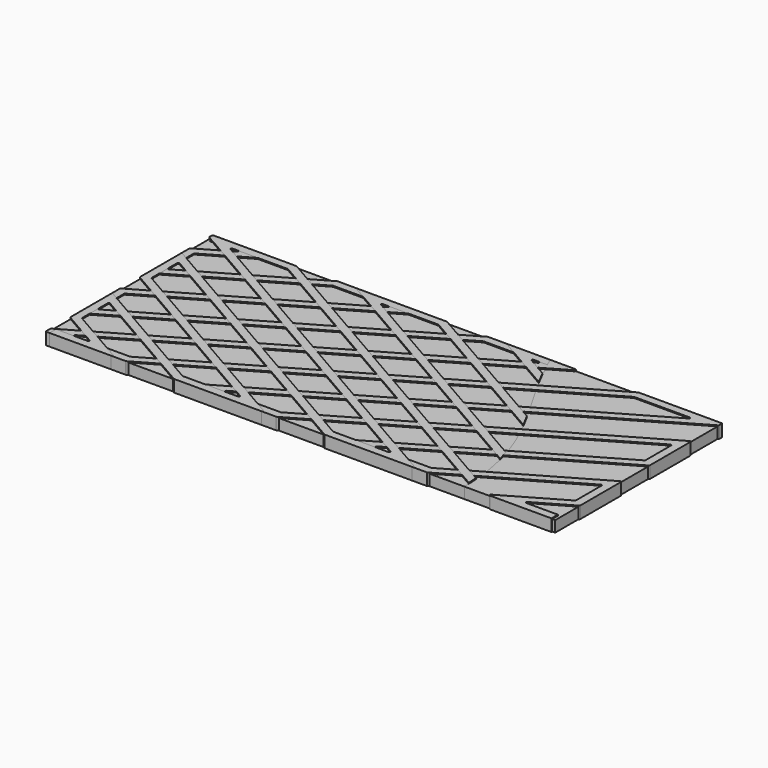
from build123d import *

# Parameters (mm, degrees)
F6_W      = 62.8235205077
F6_H      = 37.2700802982
F7_DEPTH  = 25
F9_W      = 50.6
F9_H      = 20.6
F10_DEPTH = 1.1
F11_R     = 0.1
F14_DEPTH = 25


with BuildPart() as f5:
    # F5: sweep along a path in F2
    with BuildLine(Plane.XY) as f5_path:
        Line((0, 20), (4.6410161514, 20))
        Line((4.6410161514, 20), (0, 17.3205080757))
        Line((0, 17.3205080757), (0, 12.9903810568))
        Line((0, 12.9903810568), (12.1410161514, 20))
        Line((12.1410161514, 20), (19.6410161514, 20))
        Line((19.6410161514, 20), (0, 8.6602540378))
        Line((0, 8.6602540378), (0, 4.3301270189))
        Line((0, 4.3301270189), (27.1410161514, 20))
        Line((27.1410161514, 20), (34.6410161514, 20))
        Line((34.6410161514, 20), (0, 0))
        Line((0, 0), (7.5, 0))
        Line((7.5, 0), (42.1410161514, 20))
        Line((42.1410161514, 20), (49.6410161514, 20))
        Line((49.6410161514, 20), (15, 0))
        Line((15, 0), (22.5, 0))
        Line((22.5, 0), (50, 15.8771324027))
        Line((50, 15.8771324027), (50, 11.5470053838))
        Line((50, 11.5470053838), (30, 0))
        Line((30, 0), (37.5, 0))
        Line((37.5, 0), (50, 7.2168783649))
        Line((50, 7.2168783649), (50, 2.8867513459))
        Line((50, 2.8867513459), (45, 0))
        Line((45, 0), (50, 0))
    # F4 (on line) → F5 (sweep)
    with BuildSketch(Plane.YZ):
        Polygon((19.6, 0), (20, 0), (20.4, 0), (20.4, 1.2), (20, 1.2), (19.6, 1.2), align=None)
    sweep(path=f5_path.line, transition=Transition.RIGHT)


with BuildPart() as f7:
    # F6 (on Top) → F7 (new body)
    with BuildSketch(Plane.XY):
        with Locations((25.02031927, 9.5404535532)):
            Rectangle(F6_W, F6_H)
        Polygon((-0.4, 3.6373066959), (-0.4, 8.8911941455), (-0.4, 20.4), (0, 20.4), (6.1338364744, 20.4), (50.4, 20.4), (50.4, 16.5699527257), (50.4, 11.3160652761), (50.4, -0.4), (37.607179677, -0.4), (28.507179677, -0.4), (-0.4, -0.4), align=None, mode=Mode.SUBTRACT)
    extrude(amount=F7_DEPTH)


with BuildPart() as f5_1:
    add(f5.part)

    # F8: cut F7
    add(f7.part, mode=Mode.SUBTRACT)

    # F11
    f11_edges = [f5_1.edges().sort_by_distance(p)[0] for p in [
        (-0.4, 17.551448, 0.6),
        (3.148196, 19.6, 0.6),
        (6.133836, 20.4, 0.6),
        (0.4, 17.089568, 0.6),
        (0.4, 13.683201, 0.6),
        (-0.4, 12.297561, 0.6),
        (12.248196, 19.6, 0.6),
        (12.033836, 20.4, 0.6),
        (18.148196, 19.6, 0.6),
        (21.133836, 20.4, 0.6),
        (27.033836, 20.4, 0.6),
        (-0.4, 8.891194, 0.6),
        (0.4, 8.429314, 0.6),
        (0.4, 5.022947, 0.6),
        (-0.4, 3.637307, 0.6),
        (27.248196, 19.6, 0.6),
        (33.148196, 19.6, 0.6),
        (36.133836, 20.4, 0.6),
        (42.033836, 20.4, 0.6),
        (-0.4, 0.23094, 0.6),
        (1.49282, 0.4, 0.6),
        (-0.4, -0.4, 0.6),
        (7.39282, 0.4, 0.6),
        (7.60718, -0.4, 0.6),
        (42.248196, 19.6, 0.6),
        (48.148196, 19.6, 0.6),
        (50.4, 20.4, 0.6),
        (50.4, 19.976319, 0.6),
        (50.4, 16.569953, 0.6),
        (49.6, 15.184312, 0.6),
        (49.6, 11.777945, 0.6),
        (50.4, 11.316065, 0.6),
        (28.50718, -0.4, 0.6),
        (31.49282, 0.4, 0.6),
        (22.60718, -0.4, 0.6),
        (13.50718, -0.4, 0.6),
        (16.49282, 0.4, 0.6),
        (37.39282, 0.4, 0.6),
        (22.39282, 0.4, 0.6),
        (50.4, 7.909699, 0.6),
        (49.6, 6.524058, 0.6),
        (37.60718, -0.4, 0.6),
        (43.50718, -0.4, 0.6),
        (50.4, 2.655811, 0.6),
        (46.49282, 0.4, 0.6),
        (49.6, 3.117691, 0.6),
    ]]
    fillet(f11_edges, radius=F11_R)


with BuildPart() as f10:
    # F9 (on Top) → F10 (new body)
    with BuildSketch(Plane.XY):
        with Locations((25, 10)):
            Rectangle(F9_W, F9_H)
    extrude(amount=F10_DEPTH)


with BuildPart() as f12_1:
    # F12: instance of F10
    add(f10.part.mirror(Plane.YZ.offset(25)))


with BuildPart() as f12_2:
    # F12: instance of F5
    add(f5_1.part.mirror(Plane.YZ.offset(25)))


with BuildPart() as f14:
    # F13 (on Top) → F14 (new body)
    with BuildSketch(Plane.XY):
        with BuildLine():
            Line((50.3, 20.4), (42.0606313936, 20.4))
            Line((42.0606313936, 20.4), (33.2614853978, 20.4))
            add(Edge.make_bspline(
                [(33.2614853978, 20.4), (35.9213252862, 13.4666666667), (41.1870889366, 9.1155022383), (41.2410050631, -0.4)],
                knots=[0, 0, 0, 0, 22.2780774325, 22.2780774325, 22.2780774325, 22.2780774325], degree=3))
            Line((41.2410050631, -0.4), (43.8803847577, -0.4))
            Line((43.8803847577, -0.4), (50, -0.4))
            Line((50, -0.4), (50.4, -0.4))
            Line((50.4, -0.4), (50.4, 11.373800303))
            Line((50.4, 11.373800303), (50.4, 16.396747645))
            Line((50.4, 16.396747645), (50.4, 20.4))
            Line((50.4, 20.4), (50.3, 20.4))
        make_face()
    extrude(amount=F14_DEPTH)


with BuildPart() as f12_1_1:
    add(f12_1.part)

    # F15: cut F14
    add(f14.part, mode=Mode.SUBTRACT)


with BuildPart() as f12_2_1:
    add(f12_2.part)

    # F15: cut F14
    add(f14.part, mode=Mode.SUBTRACT)


solid = Compound([f5_1.part, f10.part, f12_1_1.part, f12_2_1.part])
